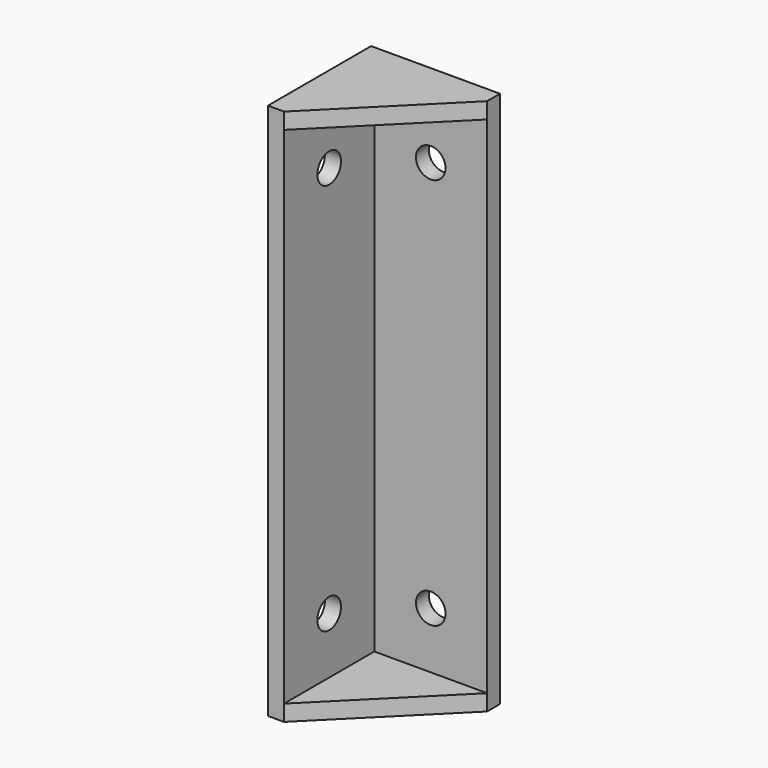
from build123d import *

# Parameters (mm, degrees)
PAD_DEPTH     = 50
SKETCH001_W   = 24
SKETCH001_H   = 24
POCKET_DEPTH  = 47
SKETCH002_R   = 2.75
HOLE_DEPTH    = 3.001
SKETCH003_R   = 2.75
HOLE001_DEPTH = 3.001


with BuildPart() as part:
    # Sketch → Pad (new body, symmetric)
    with BuildSketch(Plane.XY):
        Polygon((-3, 3), (21, 3), (21, 0), (0, -21), (-3, -21), align=None)
    extrude(amount=PAD_DEPTH, both=True)

    # Sketch001 → Pocket (cut, symmetric)
    with BuildSketch(Plane.XY):
        with Locations((12, -12)):
            Rectangle(SKETCH001_W, SKETCH001_H)
    extrude(amount=POCKET_DEPTH, both=True, mode=Mode.SUBTRACT)

    # Sketch002 → Hole (cut, through all)
    with BuildSketch(Plane.YZ):
        with Locations((-10.5, 36.5)):
            Circle(SKETCH002_R)
        with Locations((-10.5, -36.5)):
            Circle(SKETCH002_R)
    extrude(amount=-HOLE_DEPTH, mode=Mode.SUBTRACT)

    # Sketch003 → Hole001 (cut, through all)
    with BuildSketch(Plane.XZ):
        with Locations((10.5, 36.5)):
            Circle(SKETCH003_R)
        with Locations((10.5, -36.5)):
            Circle(SKETCH003_R)
    extrude(amount=-HOLE001_DEPTH, mode=Mode.SUBTRACT)


solid = part.part
